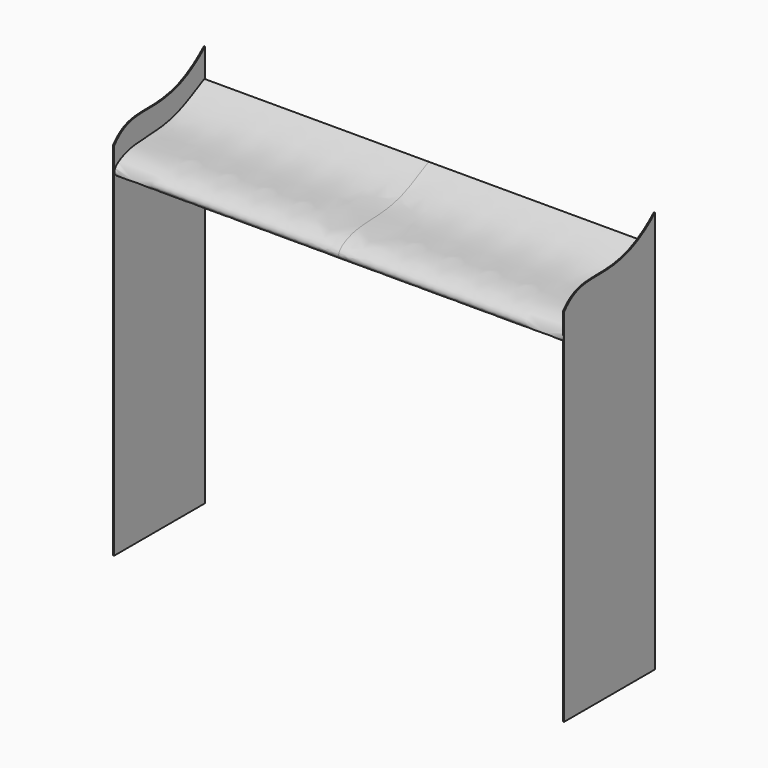
from build123d import *

# Parameters (mm, degrees)
F2_DEPTH = 609.6
F3_DEPTH = 3.175


with BuildPart() as f2:
    # F0 (on Right) → F2 (new body)
    with BuildSketch(Plane.YZ):
        with BuildLine():
            add(Edge.make_bspline(
                [(43.0329421979, 34.7511139105), (39.171130367, 35.9892817227), (-70.0711411927, -35.218000263), (-201.9931052329, -14.029218889), (-285.5028000267, -64.2483450261), (-192.7820983455, -107.4359210852), (-33.5677788683, -33.8388056306), (46.3877738048, 33.675493271), (43.0329421979, 34.7511139105)],
                knots=[0, 0, 0, 0, 0.1715412261, 0.372870211, 0.4979450462, 0.6236413962, 0.8509787757, 1, 1, 1, 1], degree=3))
        make_face()
    extrude(amount=F2_DEPTH)

    # F1 (on Right) → F3 (join)
    with BuildSketch(Plane.YZ):
        with BuildLine():
            add(Edge.make_bspline(
                [(-262.3467743397, 0), (-190.6020598596, 88.4431707577), (-96.3113990174, -15.3158832345), (44.872151887, 111.1359149218)],
                knots=[0, 0, 0, 0, 326.7027092287, 326.7027092287, 326.7027092287, 326.7027092287], degree=3))
            Line((-262.3467743397, 0), (-262.3467743397, -61.1581021309))
            Line((-262.3467743397, -61.1581021309), (-262.3467743397, -975.5581021309))
            Line((-262.3467743397, -975.5581021309), (44.8662256603, -975.5581021309))
            Line((44.8662256603, -975.5581021309), (44.872151887, 111.1359149218))
        make_face()
    extrude(amount=F3_DEPTH)

    # F4: F2 across face


with BuildPart() as f2_1:
    add(f2.part)
    add(f2.part.mirror(Plane(origin=(609.6, -141.7259631872, -44.0033504937), x_dir=(0, 1, 0), z_dir=(1, 0, 0))))


solid = f2_1.part
